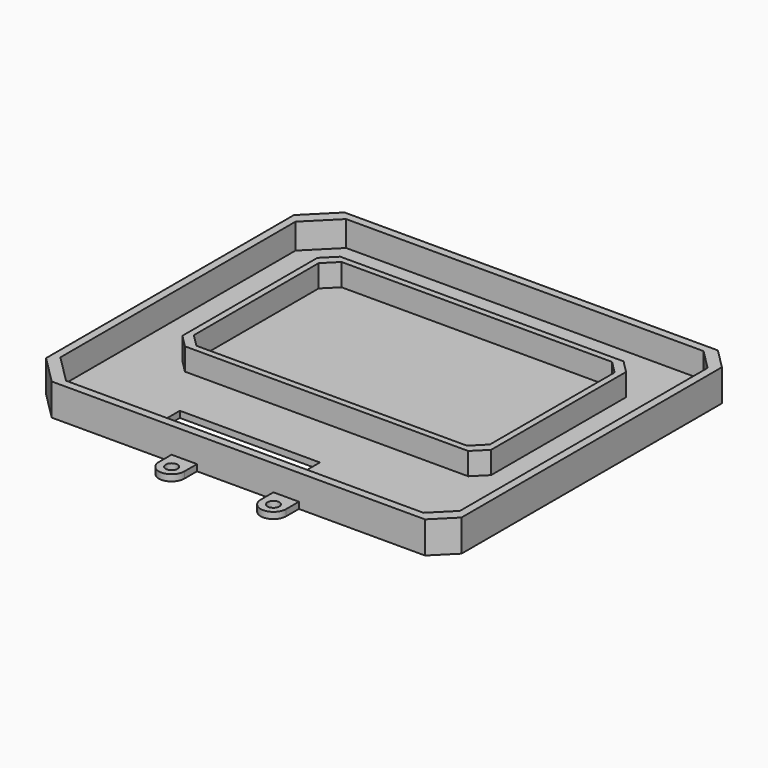
from build123d import *

# Parameters (mm, degrees)
EXTRUDE083_DEPTH = 9
SKETCH095_R      = 1.85
SKETCH095_W      = 44
SKETCH095_H      = 10
EXTRUDE084_DEPTH = 2
EXTRUDE082_DEPTH = 10


with BuildPart() as extrude083:
    # Sketch094 → Extrude083 (new body)
    with BuildSketch(Plane.XY):
        Polygon((-51, 36), (-47, 40), (42, 40), (46, 36), (46, -17), (42, -21), (-47, -21), (-51, -17), align=None)
        Polygon((-45, 38), (40, 38), (44, 34), (44, -15), (40, -19), (-45, -19), (-49, -15), (-49, 34), align=None, mode=Mode.SUBTRACT)
    extrude(amount=EXTRUDE083_DEPTH)


with BuildPart() as extrude084:
    # Sketch095 → Extrude084 (new body)
    with BuildSketch(Plane.XY):
        with BuildLine():
            Line((57.636039, 57.5), (64, 51.136039))
            Line((64, 51.136039), (64, -51.136039))
            Line((64, -51.136039), (57.636039, -57.5))
            Line((18, -57.5), (57.636039, -57.5))
            Line((18, -62.50002), (18, -57.5))
            ThreePointArc((10, -62.50002), (14, -66.500019), (18, -62.50002))
            Line((10, -62.50002), (10, -57.5))
            Line((-14, -57.5), (10, -57.5))
            Line((-14, -62.50002), (-14, -57.5))
            ThreePointArc((-22, -62.50002), (-18, -66.5), (-14, -62.50002))
            Line((-22, -62.50002), (-22, -57.5))
            Line((-59.661165, -57.5), (-22, -57.5))
            Line((-59.661165, -57.5), (-68.5, -48.661165))
            Line((-68.5, -48.661165), (-68.5, 48.661165))
            Line((-68.5, 48.661165), (-59.661165, 57.5))
            Line((-59.661165, 57.5), (-22, 57.5))
            Line((-22, 62.5), (-22, 57.5))
            ThreePointArc((-14, 62.5), (-18, 66.5), (-22, 62.5))
            Line((-14, 62.5), (-14, 57.5))
            Line((-14, 57.5), (10, 57.5))
            Line((10, 62.5), (10, 57.5))
            ThreePointArc((18, 62.5), (14, 66.5), (10, 62.5))
            Line((18, 62.5), (18, 57.5))
            Line((18, 57.5), (57.636039, 57.5))
        make_face()
        with Locations((-18, 62.5)):
            Circle(SKETCH095_R, mode=Mode.SUBTRACT)
        with Locations((14, 62.5)):
            Circle(SKETCH095_R, mode=Mode.SUBTRACT)
        with Locations((-18, -62.5)):
            Circle(SKETCH095_R, mode=Mode.SUBTRACT)
        with Locations((14, -62.500019)):
            Circle(SKETCH095_R, mode=Mode.SUBTRACT)
        with Locations((-13, -43)):
            Rectangle(SKETCH095_W, SKETCH095_H, mode=Mode.SUBTRACT)
    extrude(amount=EXTRUDE084_DEPTH)


with BuildPart() as fusion033:
    # Sketch093 → Extrude082 (new body)
    with BuildSketch(Plane.XY):
        Polygon((-59.661165, 57.5), (57.636039, 57.5), (64, 51.136039), (64, -51.136039), (57.636039, -57.5), (-59.661165, -57.5), (-68.5, -48.661165), (-68.5, 48.661165), align=None)
        Polygon((-57.161165, 55), (55.136039, 55), (61.5, 48.636039), (61.5, -48.636039), (55.136039, -55), (-57.161165, -55), (-66, -46.161165), (-66, 46.161165), align=None, mode=Mode.SUBTRACT)
    extrude(amount=EXTRUDE082_DEPTH)

    # Fusion033: union Extrude083, Extrude084
    add(extrude083.part)
    add(extrude084.part)


with BuildPart() as fusion033_1:
    # Fusion033 placement: moved
    add(fusion033.part.moved(Location((0, 0, -7))))


solid = fusion033_1.part
